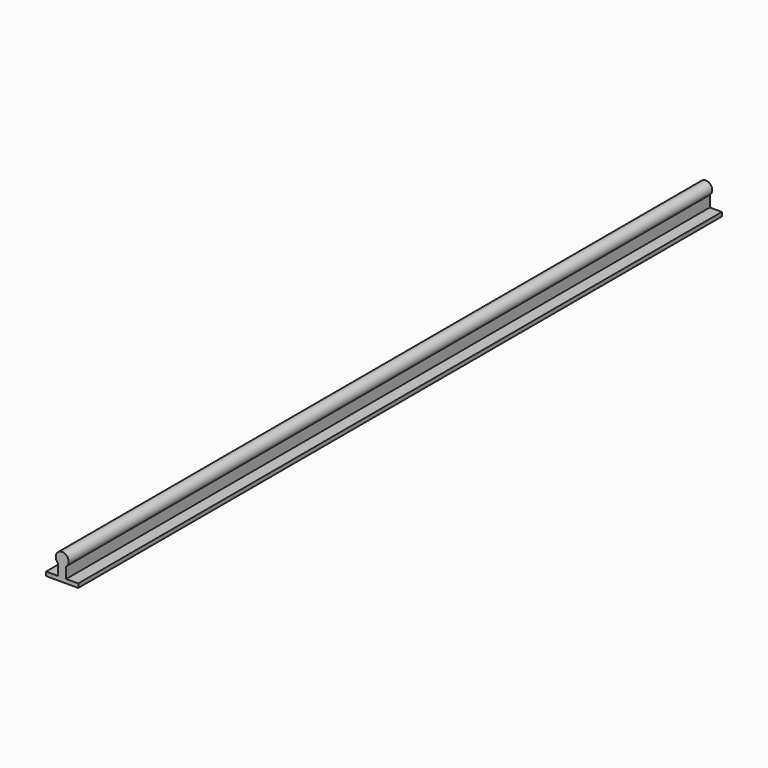
from build123d import *

# Parameters (mm, degrees)
F1_DEPTH = 500


with BuildPart() as f1:
    # F0 (on Front) → F1 (new body, symmetric)
    with BuildSketch(Plane.XZ):
        with BuildLine():
            ThreePointArc((5, -6.2449979984), (7.2111025509, -3.4641016151), (8, 0))
            ThreePointArc((8, 0), (-3.4641016151, 7.2111025509), (-5, -6.2449979984))
            ThreePointArc((-5, -6.2449979984), (0, -8), (5, -6.2449979984))
        make_face()
        Polygon((5, -20), (-5, -20), (-20, -20), (-20, -25), (0, -25), (20, -25), (20, -20), align=None)
        with BuildLine():
            ThreePointArc((5, -6.2449979984), (0, -8), (-5, -6.2449979984))
            Line((-5, -6.2449979984), (-5, -20))
            Line((-5, -20), (5, -20))
            Line((5, -20), (5, -6.2449979984))
        make_face()
    extrude(amount=F1_DEPTH, both=True)


solid = f1.part
